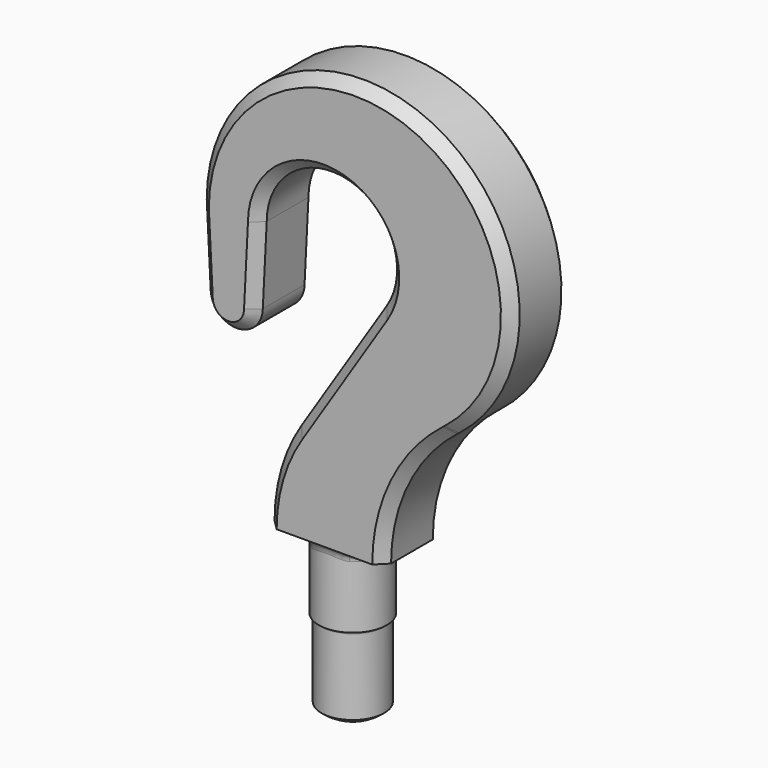
from build123d import *

# Parameters (mm, degrees)
PAD_DEPTH       = 7
CHAMFER_SIZE    = 2
CHAMFER001_SIZE = 2
SKETCH001_R     = 6.5
PAD001_DEPTH    = 14
FILLET_R        = 2
SKETCH002_R     = 6
PAD002_DEPTH    = 15
FILLET001_R     = 0.48


with BuildPart() as pad002:
    # Sketch → Pad (new body, symmetric)
    with BuildSketch(Plane.XZ):
        with BuildLine():
            ThreePointArc((10.524526, -6.744209), (3.513789, 11.99597), (-12.5, 0))
            Line((-12.5, 0), (-13.250923, -14.981192))
            ThreePointArc((-23.249077, -14.981192), (-18.25, -19.8851), (-13.250923, -14.981192))
            Line((-24, 0), (-23.249077, -14.981192))
            ThreePointArc((24.415762, -23.682477), (19.181941, 26.948774), (-24, 0))
            Line((24.072611, -23.949315), (24.415762, -23.682477))
            ThreePointArc((24.072611, -23.949315), (14.686334, -35.499894), (11.33, -50))
            Line((-11, -50), (11.33, -50))
            ThreePointArc((-5.784749, -32.195289), (-9.66936, -40.723598), (-11, -50))
            Line((-5.784749, -32.195289), (10.524526, -6.744209))
        make_face()
    extrude(amount=PAD_DEPTH, both=True)

    # Chamfer
    chamfer_edges = [pad002.edges().sort_by_distance(p)[0] for p in [
        (3.513789, -7, 11.99597),
    ]]
    chamfer(chamfer_edges, length=CHAMFER_SIZE)

    # Chamfer001
    chamfer001_edges = [pad002.edges().sort_by_distance(p)[0] for p in [
        (19.181941, 7, 26.948774),
    ]]
    chamfer(chamfer001_edges, length=CHAMFER001_SIZE)

    # Sketch001 → Pad001 (new body)
    with BuildSketch(Plane(origin=(0, 0, -50), x_dir=(1, 0, 0), z_dir=(0, 0, -1))):
        Circle(SKETCH001_R)
    extrude(amount=PAD001_DEPTH)

    # Fillet
    fillet_edges = [pad002.edges().sort_by_distance(p)[0] for p in [
        (-6.5, 0, -50),
    ]]
    fillet(fillet_edges, radius=FILLET_R)

    # Sketch002 → Pad002 (new body)
    with BuildSketch(Plane(origin=(0, 0, -64), x_dir=(1, 0, 0), z_dir=(0, 0, -1))):
        Circle(SKETCH002_R)
    extrude(amount=PAD002_DEPTH)


with BuildPart() as fillet001:
    # Sketch003 → Revolution (revolve)
    with BuildSketch(Plane.XZ):
        with BuildLine():
            Line((0, -63.291796), (0, -81.291796))
            ThreePointArc((0, -81.291796), (3.211399, -80.699347), (6, -79))
            Line((6, -65.583592), (6, -79))
            ThreePointArc((6, -65.583592), (3.211399, -63.884245), (0, -63.291796))
        make_face()
    revolve(axis=Axis((0, 0, 0), (0, 0, 1)))

    # Fusion: union Pad002
    add(pad002.part)

    # Fillet001
    fillet001_edges = [fillet001.edges().sort_by_distance(p)[0] for p in [
        (-6, 0, -64),
    ]]
    fillet(fillet001_edges, radius=FILLET001_R)


solid = fillet001.part
